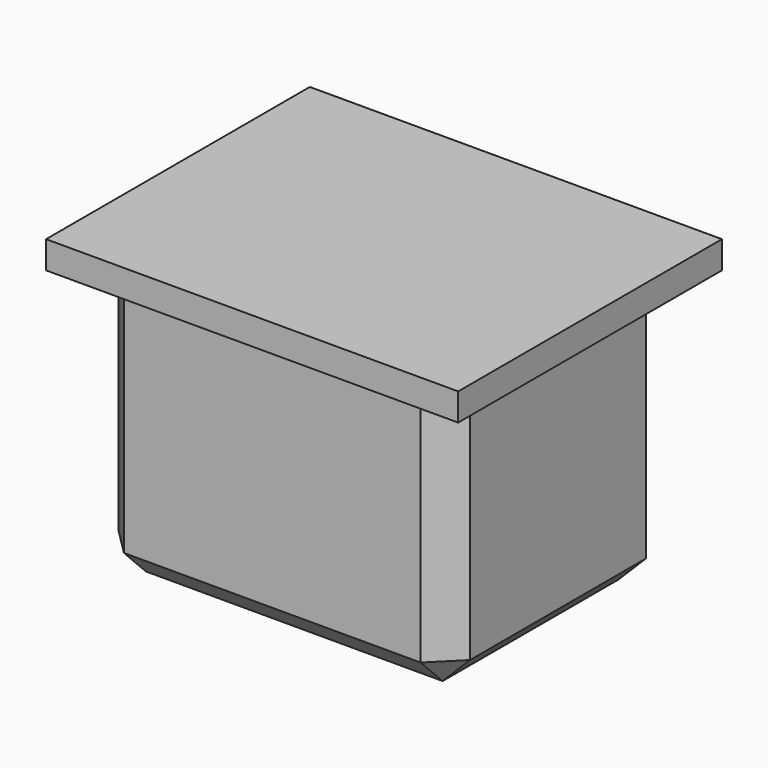
from build123d import *

# Parameters (mm, degrees)
SKETCH_W     = 12.8
SKETCH_H     = 9.8
PAD_DEPTH    = 10
SKETCH001_W  = 15
SKETCH001_H  = 12
PAD001_DEPTH = 1
CHAMFER_SIZE = 1


with BuildPart() as part:
    # Sketch → Pad (new body)
    with BuildSketch(Plane.XZ):
        Rectangle(SKETCH_W, SKETCH_H)
    extrude(amount=PAD_DEPTH)

    # Sketch001 (on Face1 of Pad) → Pad001 (join)
    with BuildSketch(Plane(origin=(0, 0, 4.9), x_dir=(-1, 0, 0), z_dir=(0, 0, 1))):
        with Locations((-0.066966, 5)):
            Rectangle(SKETCH001_W, SKETCH001_H)
    extrude(amount=PAD001_DEPTH)

    # Chamfer
    chamfer_edges = [part.edges().sort_by_distance(p)[0] for p in [
        (-6.4, -10, 0),
        (0, -10, -4.9),
        (-6.4, -5, -4.9),
        (-6.4, 0, 0),
        (6.4, -10, 0),
        (6.4, -5, -4.9),
        (6.4, 0, 0),
        (0, 0, -4.9),
    ]]
    chamfer(chamfer_edges, length=CHAMFER_SIZE)


solid = part.part
